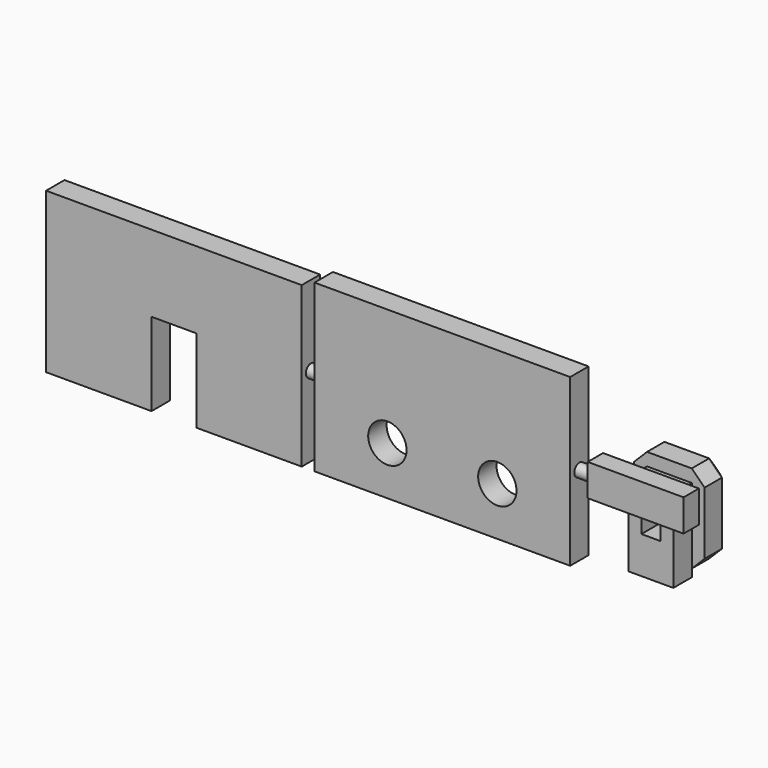
from build123d import *

# Parameters (mm, degrees)
SKETCH_W     = 3.5
SKETCH_H     = 6.5
PAD002_DEPTH = 1.8
PAD003_DEPTH = 2.7
SKETCH004_W  = 1.5
SKETCH004_H  = 1.2
POCKET_DEPTH = 2.5
SKETCH005_W  = 7.5
SKETCH005_H  = 2.5
PAD004_DEPTH = 1.5
CHAMFER_SIZE = 1
SKETCH006_R  = 0.5
PAD005_DEPTH = 30
PAD001_DEPTH = 1.8
SKETCH002_W  = 20
SKETCH002_H  = 13
SKETCH002_R  = 1.5
PAD_DEPTH    = 1.8


with BuildPart() as pad005:
    # Sketch → Pad002 (new body)
    with BuildSketch(Plane(origin=(36, 1.65, 0), x_dir=(1, 0, 0), z_dir=(0, -1, 0))):
        with Locations((0, 3.25)):
            Rectangle(SKETCH_W, SKETCH_H)
    extrude(amount=PAD002_DEPTH)

    # Sketch003 → Pad003 (new body)
    with BuildSketch(Plane(origin=(36, 1.65, 0), x_dir=(1, 0, 0), z_dir=(0, 1, 0))):
        Polygon((-1.75, -0.6), (1.75, -0.6), (2.75, -1.6), (2.75, -6.5), (1.75, -7.5), (-1.75, -7.5), (-2.75, -6.5), (-2.75, -1.6), align=None)
    extrude(amount=PAD003_DEPTH)

    # Sketch004 → Pocket (cut)
    with BuildSketch(Plane(origin=(36, -0.15, 0), x_dir=(1, 0, 0), z_dir=(0, -1, 0))):
        with Locations((0, 3.5)):
            Rectangle(SKETCH004_W, SKETCH004_H)
    extrude(amount=-POCKET_DEPTH, mode=Mode.SUBTRACT)

    # Sketch005 → Pad004 (new body)
    with BuildSketch(Plane(origin=(36, -0.15, 0), x_dir=(1, 0, 0), z_dir=(0, -1, 0))):
        with Locations((0, 6.25)):
            Rectangle(SKETCH005_W, SKETCH005_H)
    extrude(amount=PAD004_DEPTH)

    # Chamfer
    chamfer_edges = [pad005.edges().sort_by_distance(p)[0] for p in [
        (33.25, 4.35, 4.05),
        (33.75, 4.35, 1.1),
        (36, 4.35, 0.6),
        (38.25, 4.35, 1.1),
        (38.75, 4.35, 4.05),
        (38.25, 4.35, 7),
        (36, 4.35, 7.5),
        (33.75, 4.35, 7),
    ]]
    chamfer(chamfer_edges, length=CHAMFER_SIZE)

    # Sketch006 → Pad005 (new body)
    with BuildSketch(Plane(origin=(39.75, 1.65, 0), x_dir=(0, 0, 1), z_dir=(1, 0, 0))):
        with Locations((6.25, 2.55)):
            Circle(SKETCH006_R)
    extrude(amount=-PAD005_DEPTH)


with BuildPart() as padcover:
    # Sketch001 → Pad001 (new body)
    with BuildSketch(Plane.XZ):
        Polygon((10, 0), (1.75, 0), (1.75, 6.5), (-1.75, 6.5), (-1.75, 0), (-10, 0), (-10, 12.5), (10, 12.5), align=None)
    extrude(amount=PAD001_DEPTH)


with BuildPart() as fusion:
    # Sketch002 → Pad (new body)
    with BuildSketch(Plane(origin=(21, 0, 0), x_dir=(1, 0, 0), z_dir=(0, -1, 0))):
        with Locations((0, 6.5)):
            Rectangle(SKETCH002_W, SKETCH002_H)
        with Locations((-4.3, 3.8)):
            Circle(SKETCH002_R, mode=Mode.SUBTRACT)
        with Locations((4.3, 3.8)):
            Circle(SKETCH002_R, mode=Mode.SUBTRACT)
    extrude(amount=PAD_DEPTH)

    # Fusion: union Pad005, PadCover
    add(pad005.part)
    add(padcover.part)


solid = fusion.part
